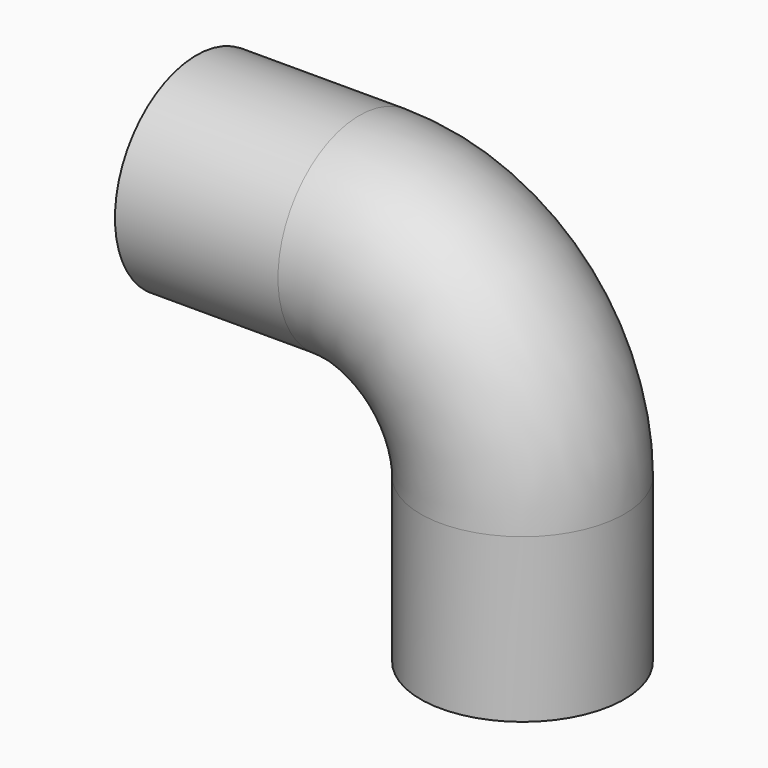
from build123d import *

# Parameters (mm, degrees)
F0_R     = 15.875
F0_R_2   = 11.1125
F3_R     = 12.7
F3_R_2   = 11.1125
F4_DEPTH = 12.7
F5_R     = 12.7
F5_R_2   = 11.1125
F6_DEPTH = 12.7


with BuildPart() as f2:
    # F2: sweep along a path in F1
    with BuildLine(Plane.XZ) as f2_path:
        Line((0, 0), (25.4, 0))
        ThreePointArc((25.4, 0), (43.3605122421, -7.4394877579), (50.8, -25.4))
        Line((50.8, -25.4), (50.8, -50.8))
    # F0 (on Right) → F2 (sweep)
    with BuildSketch(Plane.YZ):
        Circle(F0_R)
        Circle(F0_R_2, mode=Mode.SUBTRACT)
    sweep(path=f2_path.line)

    # F3 (on face) → F4 (cut)
    with BuildSketch(Plane(origin=(0, 0, 0), x_dir=(0, -1, 0), z_dir=(-1, 0, 0))):
        Circle(F3_R)
        Circle(F3_R_2, mode=Mode.SUBTRACT)
    extrude(amount=-F4_DEPTH, mode=Mode.SUBTRACT)

    # F5 (on face) → F6 (cut)
    with BuildSketch(Plane(origin=(0, 0, -50.8), x_dir=(1, 0, 0), z_dir=(0, 0, -1))):
        with Locations((50.8, 0)):
            Circle(F5_R)
        with Locations((50.8, 0)):
            Circle(F5_R_2, mode=Mode.SUBTRACT)
    extrude(amount=-F6_DEPTH, mode=Mode.SUBTRACT)


solid = f2.part
